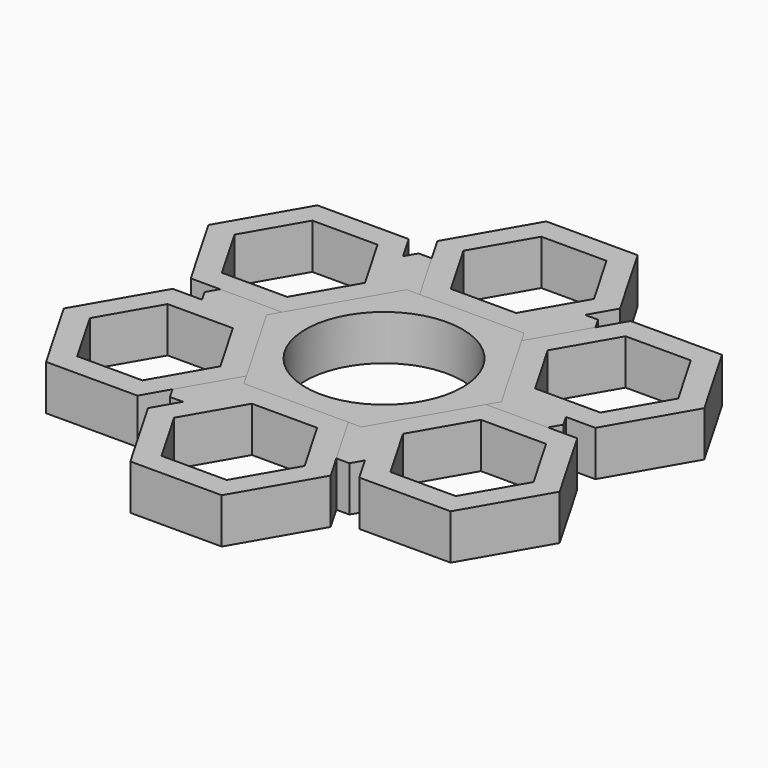
from build123d import *

# Parameters (mm, degrees)
F2_DEPTH = 6.35
F0_R     = 11.0236
F3_COUNT = 6


with BuildPart() as f2:
    # F1 (on Top) → F2 (new body)
    with BuildSketch(Plane.XY):
        Polygon((-13.519017397, 20.240625), (-12.6024738447, 18.653125), (-10.76938674, 18.653125), (-9.8528431876, 20.240625), (-10.76938674, 21.828125), (-12.6024738447, 21.828125), align=None)
        Polygon((-28.4128501225, 1.5875), (-15.5812403898, 1.5875), (-9.1654355234, 12.7), (-12.6024738447, 18.653125), (-13.519017397, 20.240625), (-15.5812403898, 23.8125), (-28.4128501225, 23.8125), (-34.8286549889, 12.7), align=None)
        Polygon((-26.5797630178, 4.7625), (-31.1624807795, 12.7), (-26.5797630178, 20.6375), (-17.4143274944, 20.6375), (-12.8316097327, 12.7), (-17.4143274944, 4.7625), align=None, mode=Mode.SUBTRACT)
        Polygon((-12.6024738447, 18.653125), (-9.1654355234, 12.7), (-8.248891971, 14.2875), (-6.4158048664, 14.2875), (-9.6237072622, 19.8437499353), (-9.8528431876, 20.240625), (-10.76938674, 18.653125), align=None)
    extrude(amount=F2_DEPTH)


with BuildPart() as f2b:
    # F1 (on Top) → F2, piece 2 (new body)
    with BuildSketch(Plane.XY):
        Polygon((9.1654355234, 12.7), (15.5812403898, 1.5875), (28.4128501225, 1.5875), (34.8286549889, 12.7), (28.4128501225, 23.8125), (15.5812403898, 23.8125), align=None)
        Polygon((17.4143274944, 20.6375), (26.5797630178, 20.6375), (31.1624807795, 12.7), (26.5797630178, 4.7625), (17.4143274944, 4.7625), (12.8316097327, 12.7), align=None, mode=Mode.SUBTRACT)
    extrude(amount=F2_DEPTH)


with BuildPart() as f2c:
    # F0 (on Top) → F2, piece 3 (new body)
    with BuildSketch(Plane.XY):
        Polygon((6.4158048664, -14.2875), (8.248891971, -14.2875), (9.1654355234, -12.7), (15.5812403898, -1.5875), (16.4977839421, 0), (15.5812403898, 1.5875), (9.1654355234, 12.7), (8.248891971, 14.2875), (6.4158048664, 14.2875), (-6.4158048664, 14.2875), (-8.248891971, 14.2875), (-9.1654355234, 12.7), (-15.5812403898, 1.5875), (-16.4977839421, 0), (-15.5812403898, -1.5875), (-9.1654355234, -12.7), (-8.248891971, -14.2875), (-6.4158048664, -14.2875), align=None)
        Circle(F0_R, mode=Mode.SUBTRACT)
        Polygon((-6.4158048664, 14.2875), (6.4158048664, 14.2875), (12.8316097327, 25.4), (6.4158048664, 36.5125), (-6.4158048664, 36.5125), (-12.8316097327, 25.4), align=None)
        Polygon((9.1654355234, 25.4), (4.5827177617, 17.4625), (-4.5827177617, 17.4625), (-9.1654355234, 25.4), (-4.5827177617, 33.3375), (4.5827177617, 33.3375), align=None, mode=Mode.SUBTRACT)
        Polygon((15.5812403898, -1.5875), (9.1654355234, -12.7), (15.5812403898, -23.8125), (28.4128501225, -23.8125), (34.8286549889, -12.7), (28.4128501225, -1.5875), align=None)
        Polygon((26.5797630178, -4.7625), (31.1624807795, -12.7), (26.5797630178, -20.6375), (17.4143274944, -20.6375), (12.8316097327, -12.7), (17.4143274944, -4.7625), align=None, mode=Mode.SUBTRACT)
        Polygon((12.8316097327, -25.4), (6.4158048664, -14.2875), (-6.4158048664, -14.2875), (-12.8316097327, -25.4), (-6.4158048664, -36.5125), (6.4158048664, -36.5125), align=None)
        Polygon((9.1654355234, -25.4), (4.5827177617, -33.3375), (-4.5827177617, -33.3375), (-9.1654355234, -25.4), (-4.5827177617, -17.4625), (4.5827177617, -17.4625), align=None, mode=Mode.SUBTRACT)
        Polygon((-15.5812403898, -23.8125), (-9.1654355234, -12.7), (-15.5812403898, -1.5875), (-28.4128501225, -1.5875), (-34.8286549889, -12.7), (-28.4128501225, -23.8125), align=None)
        Polygon((-17.4143274944, -20.6375), (-26.5797630178, -20.6375), (-31.1624807795, -12.7), (-26.5797630178, -4.7625), (-17.4143274944, -4.7625), (-12.8316097327, -12.7), align=None, mode=Mode.SUBTRACT)
    extrude(amount=F2_DEPTH)


with BuildPart() as f3_1:
    # F3: instance of F2
    add(f2.part.rotate(Axis((0, 0, 6.35), (0, 0, 1)), 1 * 360 / F3_COUNT))


with BuildPart() as f3_2:
    # F3: instance of F2
    add(f2.part.rotate(Axis((0, 0, 6.35), (0, 0, 1)), 2 * 360 / F3_COUNT))


with BuildPart() as f3_3:
    # F3: instance of F2
    add(f2.part.rotate(Axis((0, 0, 6.35), (0, 0, 1)), 3 * 360 / F3_COUNT))


with BuildPart() as f3_4:
    # F3: instance of F2
    add(f2.part.rotate(Axis((0, 0, 6.35), (0, 0, 1)), 4 * 360 / F3_COUNT))


with BuildPart() as f3_5:
    # F3: instance of F2
    add(f2.part.rotate(Axis((0, 0, 6.35), (0, 0, 1)), 5 * 360 / F3_COUNT))


solid = Compound([f2.part, f2b.part, f2c.part, f3_1.part, f3_2.part, f3_3.part, f3_4.part, f3_5.part])
